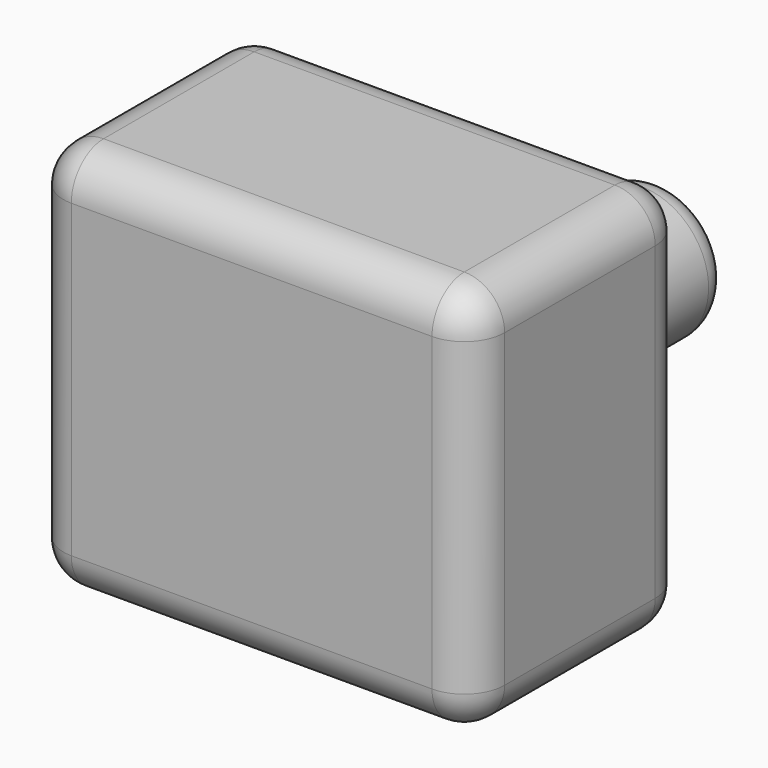
from build123d import *

# Parameters (mm, degrees)
F0_W     = 83.383921
F0_H     = 73.864564
F1_DEPTH = 25.4
F2_R     = 7.62
F3_R     = 12.7
F4_DEPTH = 25.4
F5_R     = 5.08


with BuildPart() as f1:
    # F0 (on Front) → F1 (new body, symmetric)
    with BuildSketch(Plane.XZ):
        with Locations((-8.381387, 24.481572)):
            Rectangle(F0_W, F0_H)
    extrude(amount=F1_DEPTH, both=True)

    # F2
    f2_edges = [f1.edges().sort_by_distance(p)[0] for p in [
        (-50.073348, 0, -12.45071),
        (33.310573, 0, -12.45071),
        (33.310573, 0, 61.413854),
        (-50.073348, 0, 61.413854),
        (-50.073348, 25.4, 24.481572),
        (-50.073348, -25.4, 24.481572),
        (-8.381388, 25.4, 61.413854),
        (-8.381388, 25.4, -12.45071),
        (33.310573, 25.4, 24.481572),
        (-8.381388, -25.4, 61.413854),
        (-8.381388, -25.4, -12.45071),
        (33.310573, -25.4, 24.481572),
    ]]
    fillet(f2_edges, radius=F2_R)

    # F3 (on face) → F4 (join)
    with BuildSketch(Plane(origin=(0, 25.4, 0), x_dir=(-1, 0, 0), z_dir=(0, 1, 0))):
        with Locations((-8.346652, 31.472079)):
            Circle(F3_R)
    extrude(amount=F4_DEPTH)

    # F5
    f5_edges = [f1.edges().sort_by_distance(p)[0] for p in [
        (21.046652, 50.8, 31.472079),
    ]]
    fillet(f5_edges, radius=F5_R)


solid = f1.part
